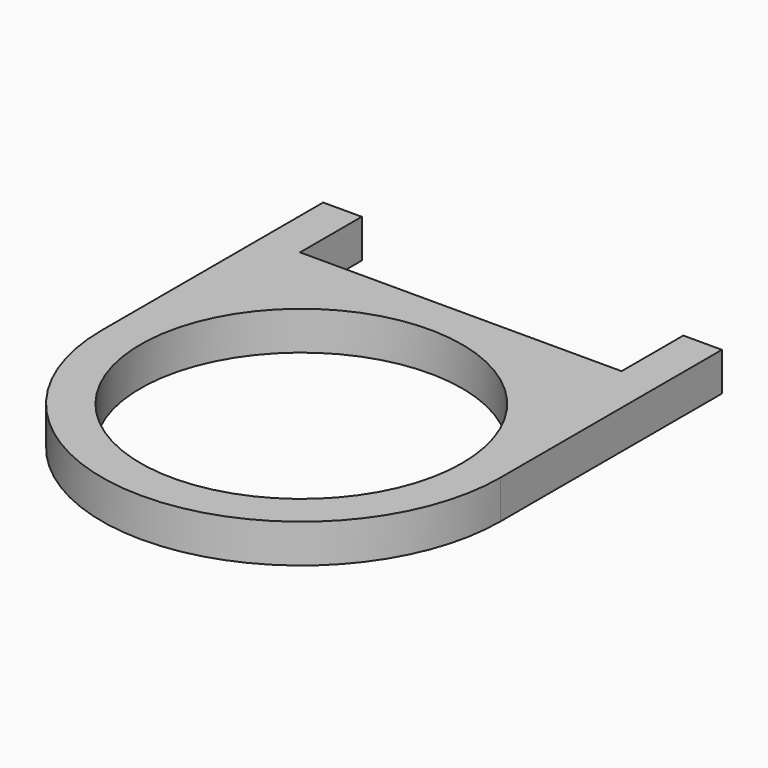
from build123d import *

# Parameters (mm, degrees)
F0_R     = 12.5
F1_DEPTH = 1.5


with BuildPart() as f1:
    # F0 (on Top) → F1 (new body, symmetric)
    with BuildSketch(Plane.XY):
        with BuildLine():
            Line((-15.5, 15.5), (-15.5, 0))
            ThreePointArc((-15.5, 0), (0, -15.5), (15.5, 0))
            Line((15.5, 0), (15.5, 15.5))
            Line((15.5, 15.5), (15.5, 18.5))
            Line((15.5, 18.5), (15.5, 21.5))
            Line((15.5, 21.5), (12.5, 21.5))
            Line((12.5, 21.5), (12.5, 18.5))
            Line((12.5, 18.5), (12.5, 15.5))
            Line((12.5, 15.5), (0, 15.5))
            Line((0, 15.5), (-12.5, 15.5))
            Line((-12.5, 15.5), (-12.5, 18.5))
            Line((-12.5, 18.5), (-12.5, 21.5))
            Line((-12.5, 21.5), (-15.5, 21.5))
            Line((-15.5, 21.5), (-15.5, 18.5))
            Line((-15.5, 18.5), (-15.5, 15.5))
        make_face()
        Circle(F0_R, mode=Mode.SUBTRACT)
    extrude(amount=F1_DEPTH, both=True)


solid = f1.part
